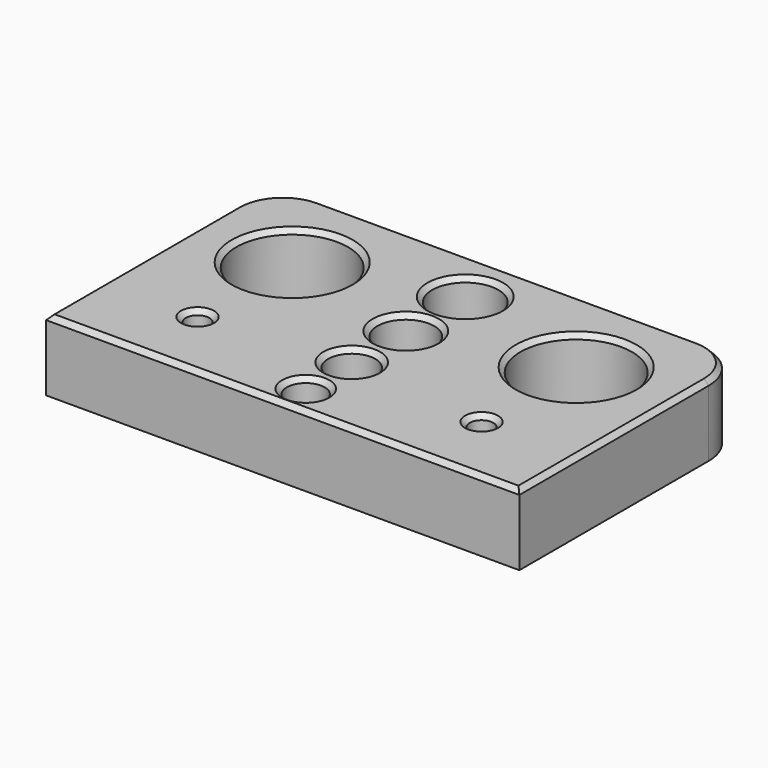
from build123d import *

# Parameters (mm, degrees)
SKETCH_W        = 100
SKETCH_H        = 60
SKETCH_R        = 11.8
SKETCH_R_2      = 2.5
PAD_DEPTH       = 15
FILLET_R        = 10
SKETCH001_R     = 7
SKETCH001_R_2   = 6
SKETCH001_R_3   = 5
SKETCH001_R_4   = 4
POCKET_DEPTH    = 12
SKETCH002_R     = 3
SKETCH002_R_2   = 2.5
SKETCH002_R_3   = 1.75
SKETCH002_R_4   = 2
POCKET001_DEPTH = 5
CHAMFER_SIZE    = 1
CHAMFER001_SIZE = 1


with BuildPart() as part:
    # Sketch → Pad (new body)
    with BuildSketch(Plane.XY):
        Rectangle(SKETCH_W, SKETCH_H)
        with Locations((-30, 10)):
            Circle(SKETCH_R, mode=Mode.SUBTRACT)
        with Locations((30, 10)):
            Circle(SKETCH_R, mode=Mode.SUBTRACT)
        with Locations((-30, -15)):
            Circle(SKETCH_R_2, mode=Mode.SUBTRACT)
        with Locations((30, -15)):
            Circle(SKETCH_R_2, mode=Mode.SUBTRACT)
    extrude(amount=PAD_DEPTH)

    # Fillet
    fillet_edges = [part.edges().sort_by_distance(p)[0] for p in [
        (-50, 30, 7.5),
        (50, 30, 7.5),
    ]]
    fillet(fillet_edges, radius=FILLET_R)

    # Sketch001 → Pocket (cut)
    with BuildSketch(Plane.XY.offset(15)):
        with Locations((0, 18.207773)):
            Circle(SKETCH001_R)
        with Locations((0, 2.49911)):
            Circle(SKETCH001_R_2)
        with Locations((0, -11.781498)):
            Circle(SKETCH001_R_3)
        with Locations((0, -23.920012)):
            Circle(SKETCH001_R_4)
    extrude(amount=-POCKET_DEPTH, mode=Mode.SUBTRACT)

    # Sketch002 → Pocket001 (cut)
    with BuildSketch(Plane.XY.offset(3)):
        with Locations((0, 18.207773)):
            Circle(SKETCH002_R)
        with Locations((0, 2.49911)):
            Circle(SKETCH002_R_2)
        with Locations((0, -23.920012)):
            Circle(SKETCH002_R_3)
        with Locations((0, -11.781498)):
            Circle(SKETCH002_R_4)
    extrude(amount=-POCKET001_DEPTH, mode=Mode.SUBTRACT)

    # Chamfer
    chamfer_edges = [part.edges().sort_by_distance(p)[0] for p in [
        (0, 30, 15),
        (-47.071068, 27.071068, 15),
        (47.071068, 27.071068, 15),
        (-50, -5, 15),
        (50, -5, 15),
        (0, -30, 15),
        (-4, -23.920012, 15),
        (-5, -11.781498, 15),
        (-7, 18.207773, 15),
        (-6, 2.49911, 15),
        (-32.5, -15, 15),
        (-41.8, 10, 15),
        (18.2, 10, 15),
        (27.5, -15, 15),
    ]]
    chamfer(chamfer_edges, length=CHAMFER_SIZE)

    # Chamfer001
    chamfer001_edges = [part.edges().sort_by_distance(p)[0] for p in [
        (-3, 18.207773, 3),
        (-2.5, 2.49911, 3),
        (-2, -11.781498, 3),
        (-1.75, -23.920012, 3),
    ]]
    chamfer(chamfer001_edges, length=CHAMFER001_SIZE)


solid = part.part
